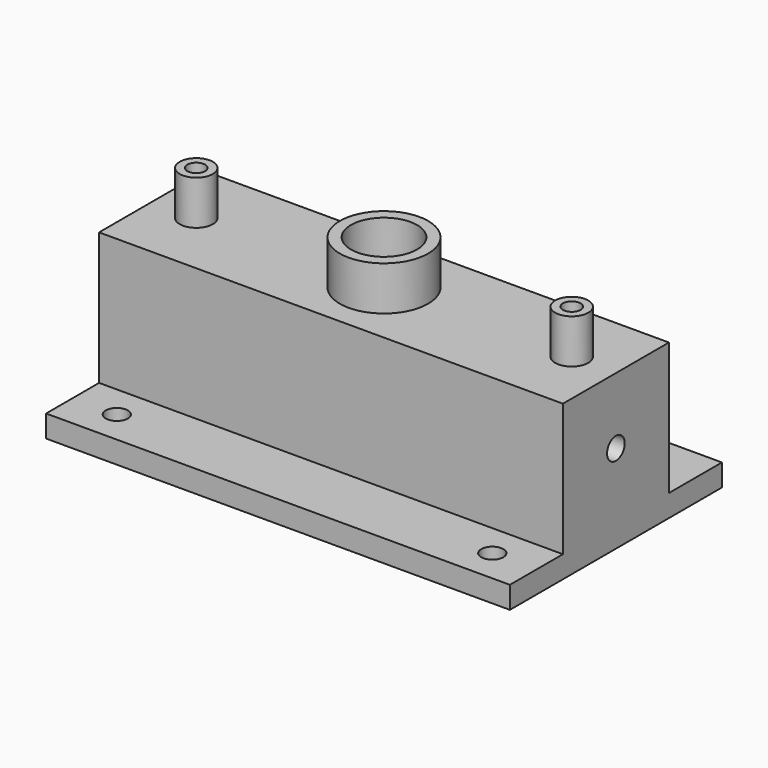
from build123d import *

# Parameters (mm, degrees)
F0_W      = 38.1
F0_H      = 38.1
F1_DEPTH  = 66.675
F3_R      = 12.7
F4_DEPTH  = 120.65
F5_W      = 133.35
F5_H      = 76.2
F5_R      = 3.175
F6_DEPTH  = 6.35
F7_R      = 9.525
F8_DEPTH  = 25.4
F9_R      = 9.525
F9_R_2    = 3.175
F10_DEPTH = 19.05
F11_R     = 4.7625
F11_R_2   = 2.5527
F11_R_3   = 12.7
F11_R_4   = 9.525
F12_DEPTH = 12.7
F13_R     = 3.175
F14_DEPTH = 12.7


with BuildPart() as f1:
    # F0 (on Right) → F1 (new body, symmetric)
    with BuildSketch(Plane.YZ):
        Rectangle(F0_W, F0_H)
    extrude(amount=F1_DEPTH, both=True)

    # F3 (on offset) → F4 (cut)
    with BuildSketch(Plane.YZ.offset(60.325)):
        Circle(F3_R)
    extrude(amount=-F4_DEPTH, mode=Mode.SUBTRACT)

    # F5 (on face) → F6 (join)
    with BuildSketch(Plane(origin=(0, 0, -19.05), x_dir=(1, 0, 0), z_dir=(0, 0, -1))):
        Rectangle(F5_W, F5_H)
        with Locations((-53.975, -28.575)):
            Circle(F5_R, mode=Mode.SUBTRACT)
        with Locations((53.975, -28.575)):
            Circle(F5_R, mode=Mode.SUBTRACT)
        with Locations((-53.975, 28.5496)):
            Circle(F5_R, mode=Mode.SUBTRACT)
        with Locations((53.975, 28.5496)):
            Circle(F5_R, mode=Mode.SUBTRACT)
    extrude(amount=F6_DEPTH)

    # F7 (on face) → F8 (cut)
    with BuildSketch(Plane(origin=(0, 0, -25.4), x_dir=(1, 0, 0), z_dir=(0, 0, -1))):
        with Locations((-33.655, 0)):
            Circle(F7_R)
        with Locations((33.655, 0)):
            Circle(F7_R)
    extrude(amount=-F8_DEPTH, mode=Mode.SUBTRACT)

    # F9 (on face) → F10 (cut)
    with BuildSketch(Plane.XY.offset(19.05)):
        Circle(F9_R)
        with Locations((-53.975, 0)):
            Circle(F9_R_2)
        with Locations((53.975, 0)):
            Circle(F9_R_2)
    extrude(amount=-F10_DEPTH, mode=Mode.SUBTRACT)

    # F11 (on face) → F12 (join)
    with BuildSketch(Plane.XY.offset(19.05)):
        with Locations((-53.975, 0)):
            Circle(F11_R)
        with Locations((-53.975, 0)):
            Circle(F11_R_2, mode=Mode.SUBTRACT)
        Circle(F11_R_3)
        Circle(F11_R_4, mode=Mode.SUBTRACT)
        with Locations((53.975, 0)):
            Circle(F11_R)
        with Locations((53.975, 0)):
            Circle(F11_R_2, mode=Mode.SUBTRACT)
    extrude(amount=F12_DEPTH)

    # F13 (on face) → F14 (cut)
    with BuildSketch(Plane.YZ.offset(66.675)):
        Circle(F13_R)
    extrude(amount=-F14_DEPTH, mode=Mode.SUBTRACT)


solid = f1.part
